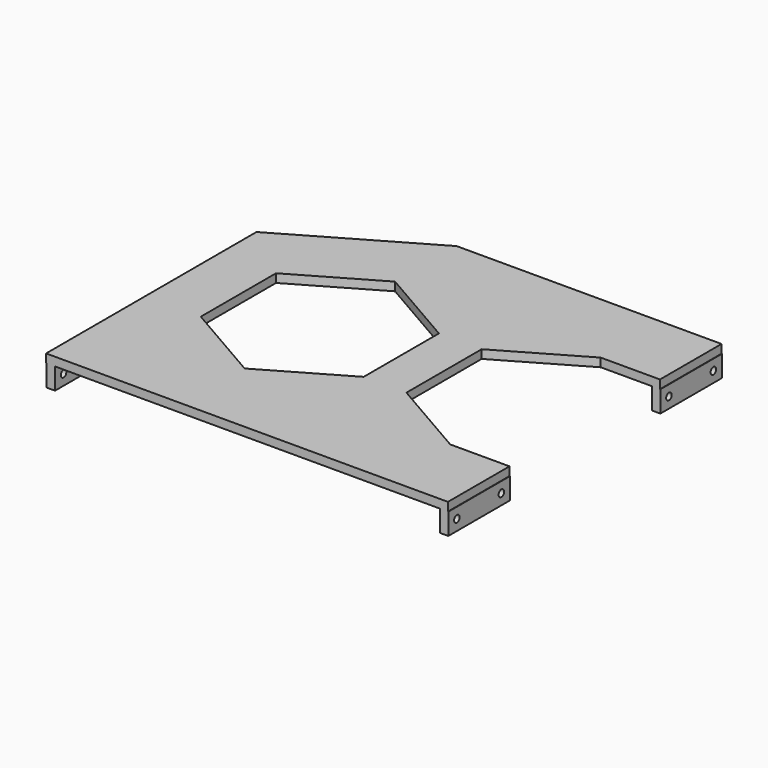
from build123d import *

# Parameters (mm, degrees)
PAD_DEPTH       = 4
SKETCH001_W     = 4
SKETCH001_H     = 36
PAD001_DEPTH    = 10
SKETCH002_R     = 1.625
POCKET_DEPTH    = 4.001
SKETCH003_R     = 1.625
POCKET001_DEPTH = 4.185882


with BuildPart() as part:
    # Sketch → Pad (new body)
    with BuildSketch(Plane.XY):
        Polygon((65.815118, 80), (65.815118, 44), (38.105118, 44), (0, 22), (0, -22), (38.105118, -44), (65.815118, -44), (65.815118, -80), (-122.184882, -80), (-122.184882, 43.003531), (-58.105118, 80), align=None)
        Polygon((-58.105118, 44), (-96.210236, 22), (-96.210236, -22), (-58.105118, -44), (-20, -22), (-20, 22), align=None, mode=Mode.SUBTRACT)
    extrude(amount=PAD_DEPTH)

    # Sketch001 (on Face18 of Pad) → Pad001 (join)
    with BuildSketch(Plane(origin=(0, 0, 0), x_dir=(1, 0, 0), z_dir=(0, 0, -1))):
        with Locations((64, 62)):
            Rectangle(SKETCH001_W, SKETCH001_H)
        with Locations((64, -62)):
            Rectangle(SKETCH001_W, SKETCH001_H)
        with Locations((-120, 62)):
            Rectangle(SKETCH001_W, SKETCH001_H)
    extrude(amount=PAD001_DEPTH)

    # Sketch002 (on Face15 of Pad001) → Pocket (cut, through all)
    with BuildSketch(Plane(origin=(62, 0, 0), x_dir=(0, -1, 0), z_dir=(-1, 0, 0))):
        with Locations((75, -5)):
            Circle(SKETCH002_R)
        with Locations((49, -5)):
            Circle(SKETCH002_R)
        with Locations((-49, -5)):
            Circle(SKETCH002_R)
        with Locations((-75, -5)):
            Circle(SKETCH002_R)
    extrude(amount=-POCKET_DEPTH, mode=Mode.SUBTRACT)

    # Sketch003 (on Face17 of Pocket) → Pocket001 (cut, through all)
    with BuildSketch(Plane.YZ.offset(-118)):
        with Locations((-49, -5)):
            Circle(SKETCH003_R)
        with Locations((-75, -5)):
            Circle(SKETCH003_R)
    extrude(amount=-POCKET001_DEPTH, mode=Mode.SUBTRACT)


solid = part.part
